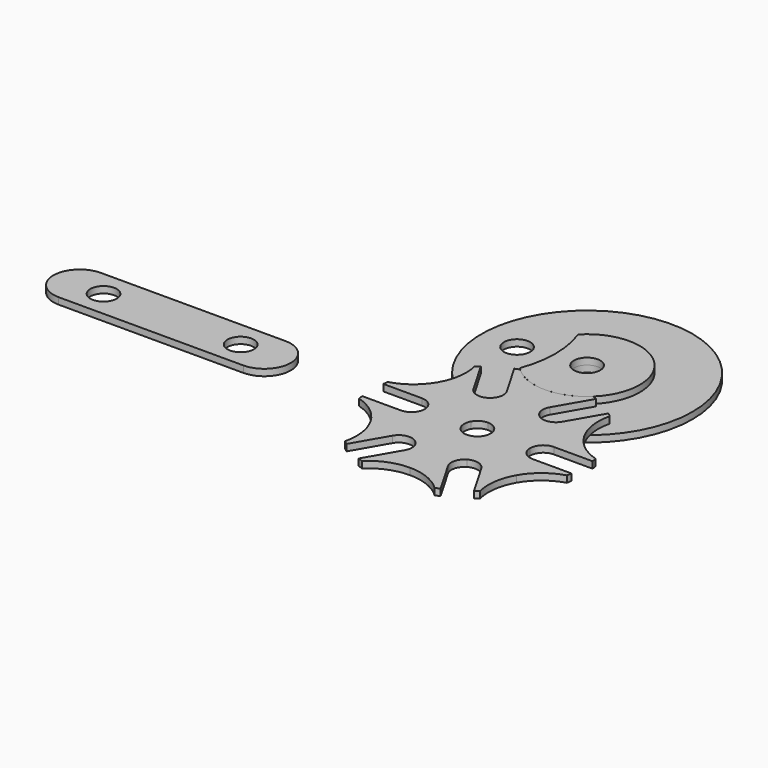
from build123d import *

# Parameters (mm, degrees)
F1_DEPTH = 3.175
F2_R     = 50.8
F2_R_2   = 6.35
F3_DEPTH = 3.175
F4_R     = 6.35
F5_DEPTH = 3.175
F6_R     = 6.35
F7_DEPTH = 3.175
F8_DEPTH = 3.176


with BuildPart() as f1:
    # F0 (on Top) → F1 (new body)
    with BuildSketch(Plane.XY):
        with BuildLine():
            Line((0, 40.64), (0, 6.35))
            ThreePointArc((0, 6.35), (3.175, 5.499261), (5.499261, 3.175))
            Line((5.499261, 3.175), (35.195272, 20.32))
            ThreePointArc((35.195272, 20.32), (32.049136, 29.417168), (32.514014, 39.031767))
            ThreePointArc((32.514014, 39.031767), (31.615254, 39.763246), (30.700043, 40.474033))
            Line((30.700043, 40.474033), (21.374261, 24.321307))
            Line((21.374261, 24.321307), (18.199261, 18.822045))
            Line((18.199261, 18.822045), (12.7, 21.997045))
            Line((12.7, 21.997045), (7.200739, 25.172045))
            Line((7.200739, 25.172045), (10.375739, 30.671307))
            Line((10.375739, 30.671307), (19.70152, 46.824033))
            ThreePointArc((19.70152, 46.824033), (18.628354, 47.261236), (17.545495, 47.673846))
            ThreePointArc((17.545495, 47.673846), (9.451447, 42.46395), (0, 40.64))
        make_face()
        with BuildLine():
            ThreePointArc((-32.514014, 39.031767), (-32.049136, 29.417168), (-35.195272, 20.32))
            Line((-35.195272, 20.32), (-5.499261, 3.175))
            ThreePointArc((-5.499261, 3.175), (-3.175, 5.499261), (0, 6.35))
            Line((0, 6.35), (0, 40.64))
            ThreePointArc((0, 40.64), (-9.451447, 42.46395), (-17.545495, 47.673846))
            ThreePointArc((-17.545495, 47.673846), (-18.631204, 47.260113), (-19.707167, 46.821657))
            Line((-19.707167, 46.821657), (-10.381003, 30.668267))
            Line((-10.381003, 30.668267), (-7.206003, 25.169006))
            Line((-7.206003, 25.169006), (-12.705265, 21.994006))
            Line((-12.705265, 21.994006), (-18.204526, 18.819006))
            Line((-18.204526, 18.819006), (-21.379526, 24.318267))
            Line((-21.379526, 24.318267), (-30.704924, 40.470331))
            ThreePointArc((-30.704924, 40.470331), (-31.617652, 39.761339), (-32.514014, 39.031767))
        make_face()
        with BuildLine():
            ThreePointArc((-35.195272, 20.32), (-41.500582, 13.046782), (-50.059509, 8.642079))
            ThreePointArc((-50.059509, 8.642079), (-50.243608, 7.49799), (-50.401562, 6.35))
            Line((-50.401562, 6.35), (-31.75, 6.35))
            Line((-31.75, 6.35), (-25.4, 6.35))
            Line((-25.4, 6.35), (-25.4, 0))
            Line((-25.4, 0), (-25.4, -6.35))
            Line((-25.4, -6.35), (-31.75, -6.35))
            Line((-31.75, -6.35), (-50.401562, -6.35))
            ThreePointArc((-50.401562, -6.35), (-50.243608, -7.49799), (-50.059509, -8.642079))
            ThreePointArc((-50.059509, -8.642079), (-41.500582, -13.046782), (-35.195272, -20.32))
            Line((-35.195272, -20.32), (-5.499261, -3.175))
            ThreePointArc((-5.499261, -3.175), (-6.35, 0), (-5.499261, 3.175))
            Line((-5.499261, 3.175), (-35.195272, 20.32))
        make_face()
        with BuildLine():
            ThreePointArc((0, -6.35), (-3.175, -5.499261), (-5.499261, -3.175))
            Line((-5.499261, -3.175), (-35.195272, -20.32))
            ThreePointArc((-35.195272, -20.32), (-32.049136, -29.417168), (-32.514014, -39.031767))
            ThreePointArc((-32.514014, -39.031767), (-31.612856, -39.765152), (-30.695161, -40.477736))
            Line((-30.695161, -40.477736), (-21.368997, -24.324346))
            Line((-21.368997, -24.324346), (-18.193997, -18.825085))
            Line((-18.193997, -18.825085), (-12.694736, -22.000085))
            Line((-12.694736, -22.000085), (-7.195474, -25.175085))
            Line((-7.195474, -25.175085), (-10.370474, -30.674346))
            Line((-10.370474, -30.674346), (-19.695872, -46.826409))
            ThreePointArc((-19.695872, -46.826409), (-18.625504, -47.262359), (-17.545495, -47.673846))
            ThreePointArc((-17.545495, -47.673846), (-9.451447, -42.46395), (0, -40.64))
            Line((0, -40.64), (0, -6.35))
        make_face()
        with BuildLine():
            Line((35.195272, -20.32), (5.499261, -3.175))
            ThreePointArc((5.499261, -3.175), (3.175, -5.499261), (0, -6.35))
            Line((0, -6.35), (0, -40.64))
            ThreePointArc((0, -40.64), (9.451447, -42.46395), (17.545495, -47.673846))
            ThreePointArc((17.545495, -47.673846), (18.625504, -47.262359), (19.695872, -46.826409))
            Line((19.695872, -46.826409), (10.370474, -30.674346))
            Line((10.370474, -30.674346), (7.195474, -25.175085))
            Line((7.195474, -25.175085), (12.694735, -22.000085))
            Line((12.694735, -22.000085), (18.193997, -18.825085))
            Line((18.193997, -18.825085), (21.368997, -24.324346))
            Line((21.368997, -24.324346), (30.695161, -40.477736))
            ThreePointArc((30.695161, -40.477736), (31.612856, -39.765152), (32.514014, -39.031767))
            ThreePointArc((32.514014, -39.031767), (32.049136, -29.417168), (35.195272, -20.32))
        make_face()
        with BuildLine():
            Line((35.195272, 20.32), (5.499261, 3.175))
            ThreePointArc((5.499261, 3.175), (6.133629, 1.643501), (6.35, 0))
            ThreePointArc((6.35, 0), (6.133629, -1.643501), (5.499261, -3.175))
            Line((5.499261, -3.175), (35.195272, -20.32))
            ThreePointArc((35.195272, -20.32), (41.500582, -13.046782), (50.059509, -8.642079))
            ThreePointArc((50.059509, -8.642079), (50.243608, -7.49799), (50.401562, -6.35))
            Line((50.401562, -6.35), (31.75, -6.35))
            Line((31.75, -6.35), (25.4, -6.35))
            Line((25.4, -6.35), (25.4, 0))
            Line((25.4, 0), (25.4, 6.35))
            Line((25.4, 6.35), (31.75, 6.35))
            Line((31.75, 6.35), (50.401562, 6.35))
            ThreePointArc((50.401562, 6.35), (50.243608, 7.49799), (50.059509, 8.642079))
            ThreePointArc((50.059509, 8.642079), (41.500582, 13.046782), (35.195272, 20.32))
        make_face()
        with BuildLine():
            Line((-25.4, 6.35), (-31.75, 6.35))
            ThreePointArc((-31.75, 6.35), (-27.259872, 4.490128), (-25.4, 0))
            Line((-25.4, 0), (-25.4, 6.35))
        make_face()
        with BuildLine():
            Line((-25.4, -6.35), (-25.4, 0))
            ThreePointArc((-25.4, 0), (-27.259872, -4.490128), (-31.75, -6.35))
            Line((-31.75, -6.35), (-25.4, -6.35))
        make_face()
        with BuildLine():
            ThreePointArc((-12.705265, 21.994006), (-17.523765, 21.359638), (-21.379526, 24.318267))
            Line((-21.379526, 24.318267), (-18.204526, 18.819006))
            Line((-18.204526, 18.819006), (-12.705265, 21.994006))
        make_face()
        with BuildLine():
            ThreePointArc((-10.381003, 30.668267), (-9.746635, 25.849766), (-12.705265, 21.994006))
            Line((-12.705265, 21.994006), (-7.206003, 25.169006))
            Line((-7.206003, 25.169006), (-10.381003, 30.668267))
        make_face()
        with BuildLine():
            ThreePointArc((12.7, 21.997045), (9.741371, 25.852806), (10.375739, 30.671307))
            Line((10.375739, 30.671307), (7.200739, 25.172045))
            Line((7.200739, 25.172045), (12.7, 21.997045))
        make_face()
        with BuildLine():
            Line((18.199261, 18.822045), (21.374261, 24.321307))
            ThreePointArc((21.374261, 24.321307), (17.518501, 21.362678), (12.7, 21.997045))
            Line((12.7, 21.997045), (18.199261, 18.822045))
        make_face()
        with BuildLine():
            ThreePointArc((25.4, 0), (27.259872, 4.490128), (31.75, 6.35))
            Line((31.75, 6.35), (25.4, 6.35))
            Line((25.4, 6.35), (25.4, 0))
        make_face()
        with BuildLine():
            Line((25.4, -6.35), (31.75, -6.35))
            ThreePointArc((31.75, -6.35), (27.259872, -4.490128), (25.4, 0))
            Line((25.4, 0), (25.4, -6.35))
        make_face()
        with BuildLine():
            ThreePointArc((12.694735, -22.000085), (17.513236, -21.365717), (21.368997, -24.324346))
            Line((21.368997, -24.324346), (18.193997, -18.825085))
            Line((18.193997, -18.825085), (12.694735, -22.000085))
        make_face()
        with BuildLine():
            Line((7.195474, -25.175085), (10.370474, -30.674346))
            ThreePointArc((10.370474, -30.674346), (9.736107, -25.855845), (12.694735, -22.000085))
            Line((12.694735, -22.000085), (7.195474, -25.175085))
        make_face()
        with BuildLine():
            ThreePointArc((-12.694736, -22.000085), (-9.736107, -25.855845), (-10.370474, -30.674346))
            Line((-10.370474, -30.674346), (-7.195474, -25.175085))
            Line((-7.195474, -25.175085), (-12.694736, -22.000085))
        make_face()
        with BuildLine():
            Line((-18.193997, -18.825085), (-21.368997, -24.324346))
            ThreePointArc((-21.368997, -24.324346), (-17.513237, -21.365717), (-12.694736, -22.000085))
            Line((-12.694736, -22.000085), (-18.193997, -18.825085))
        make_face()
    extrude(amount=F1_DEPTH)


with BuildPart() as f3:
    # F2 (on Top) → F3 (new body)
    with BuildSketch(Plane.XY):
        with Locations((0, 66.04)):
            Circle(F2_R)
        with Locations((0, 66.04)):
            Circle(F2_R_2, mode=Mode.SUBTRACT)
    extrude(amount=-F3_DEPTH)

    # F4 (on face) → F8 (cut, through all)
    with BuildSketch(Plane.XY):
        with Locations((-33.7058, 66.04)):
            Circle(F4_R)
    extrude(amount=-F8_DEPTH, mode=Mode.SUBTRACT)


with BuildPart() as f5:
    # F4 (on face) → F5 (new body)
    with BuildSketch(Plane.XY):
        with BuildLine():
            ThreePointArc((-18.366154, 83.585495), (-15.24, 66.04), (-18.366154, 48.494505))
            ThreePointArc((-18.366154, 48.494505), (25.4, 66.04), (-18.366154, 83.585495))
        make_face()
        with Locations((0, 66.04)):
            Circle(F4_R, mode=Mode.SUBTRACT)
    extrude(amount=F5_DEPTH)


with BuildPart() as f7:
    # F6 (on Top) → F7 (new body)
    with BuildSketch(Plane.XY):
        with BuildLine():
            ThreePointArc((-189.851099, 10.648969), (-202.551099, -2.051031), (-189.851099, -14.751031))
            Line((-189.851099, -14.751031), (-100.951099, -14.751031))
            ThreePointArc((-100.951099, -14.751031), (-88.251099, -2.051031), (-100.951099, 10.648969))
            Line((-100.951099, 10.648969), (-189.851099, 10.648969))
        make_face()
        with Locations((-178.421099, -2.051031)):
            Circle(F6_R, mode=Mode.SUBTRACT)
        with Locations((-112.381099, -2.051031)):
            Circle(F6_R, mode=Mode.SUBTRACT)
    extrude(amount=F7_DEPTH)


solid = Compound([f1.part, f3.part, f5.part, f7.part])
